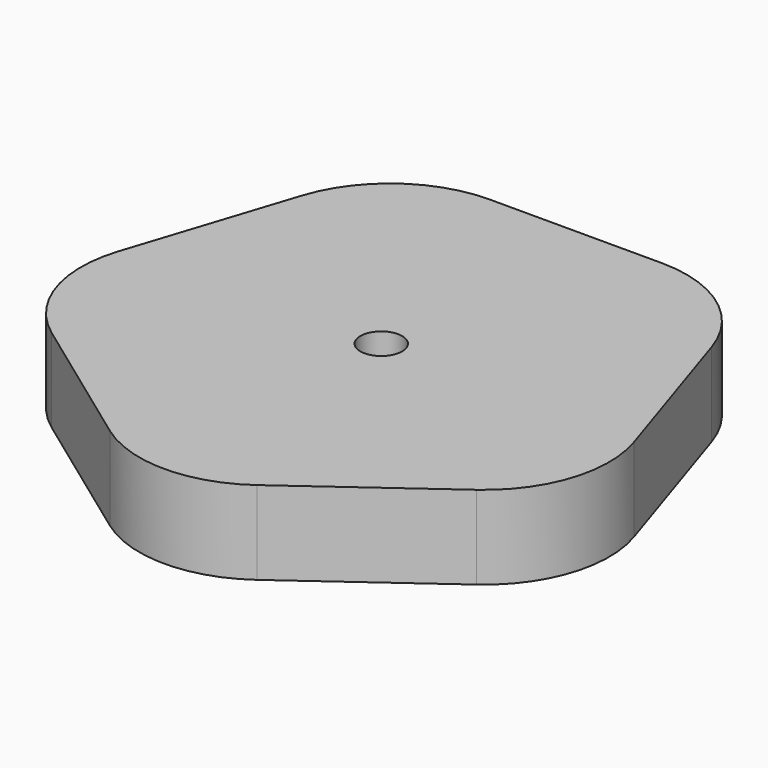
from build123d import *

# Parameters (mm, degrees)
F0_R     = 2.5
F1_DEPTH = 10


with BuildPart() as f1:
    # F0 (on Top) → F1 (new body)
    with BuildSketch(Plane.XY):
        with BuildLine():
            Line((10.286242, 29.157797), (-10.286242, 29.157797))
            ThreePointArc((-10.286242, 29.157797), (-19.103021, 26.293052), (-24.55209, 18.793052))
            Line((-24.55209, 18.793052), (-30.909337, -0.772542))
            ThreePointArc((-30.909337, -0.772542), (-30.909337, -10.043052), (-25.460268, -17.543052))
            Line((-25.460268, -17.543052), (-8.816779, -29.635255))
            ThreePointArc((-8.816779, -29.635255), (0, -32.5), (8.816779, -29.635255))
            Line((8.816779, -29.635255), (25.460268, -17.543052))
            ThreePointArc((25.460268, -17.543052), (30.909337, -10.043052), (30.909337, -0.772542))
            Line((30.909337, -0.772542), (24.55209, 18.793052))
            ThreePointArc((24.55209, 18.793052), (19.103021, 26.293052), (10.286242, 29.157797))
        make_face()
        Circle(F0_R, mode=Mode.SUBTRACT)
    extrude(amount=F1_DEPTH)


solid = f1.part
